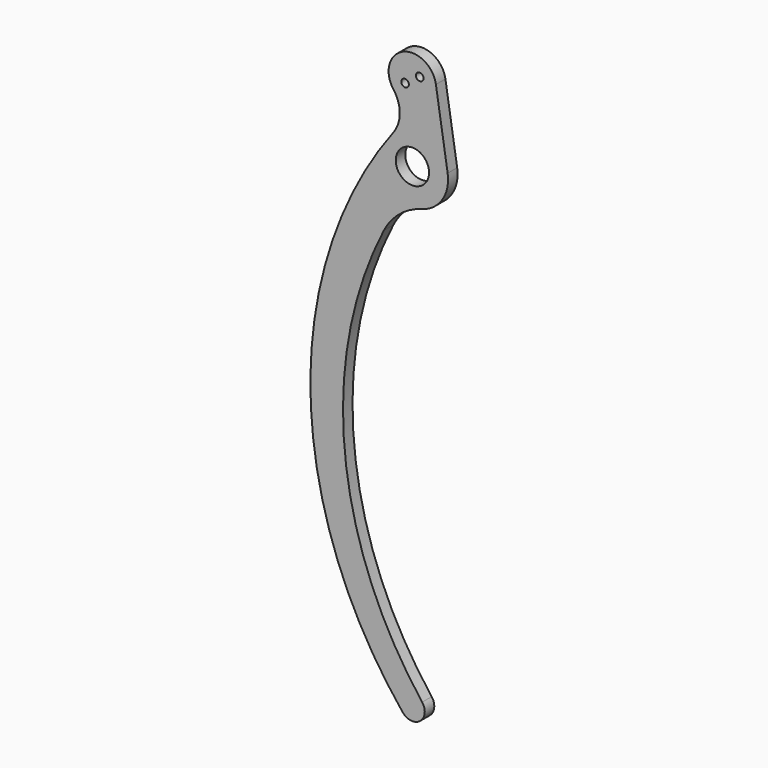
from build123d import *

# Parameters (mm, degrees)
F0_R     = 4.445
F0_R_2   = 1.016
F1_DEPTH = 3.175


with BuildPart() as f1:
    # F0 (on Front) → F1 (new body)
    with BuildSketch(Plane.XZ):
        with BuildLine():
            Line((9.40801, 1.488281), (6.272006, 21.312188))
            ThreePointArc((6.272006, 21.312188), (-2.482691, 26.164548), (-5.068596, 16.494842))
            ThreePointArc((-5.068596, 16.494842), (-3.37124, 11.428014), (-5.068596, 6.361186))
            ThreePointArc((-5.068596, 6.361186), (-27.200848, -61.795162), (-2.560215, -129.085307))
            ThreePointArc((-2.560215, -129.085307), (2.052999, -129.586194), (2.611765, -124.979632))
            ThreePointArc((2.611765, -124.979632), (-18.059382, -72.719897), (-7.62, -17.498565))
            ThreePointArc((-7.62, -17.498565), (-3.418112, -12.26682), (2.54, -9.180089))
            ThreePointArc((2.54, -9.180089), (8.008886, -5.155906), (9.40801, 1.488281))
        make_face()
        Circle(F0_R, mode=Mode.SUBTRACT)
        with Locations((-1.950606, 18.954171)):
            Circle(F0_R_2, mode=Mode.SUBTRACT)
        with Locations((1.950606, 21.685829)):
            Circle(F0_R_2, mode=Mode.SUBTRACT)
    extrude(amount=F1_DEPTH)


solid = f1.part
